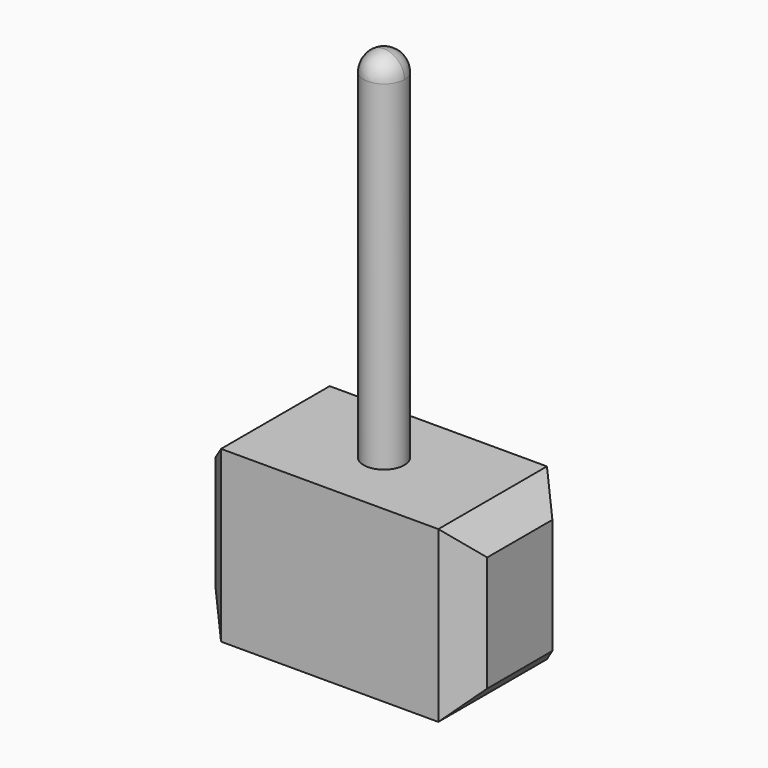
from build123d import *

# Parameters (mm, degrees)
F0_W     = 50.8
F0_H     = 25.4
F1_DEPTH = 31.75
F2_R     = 3.81
F3_DEPTH = 63.5
F6_SIZE  = 5.08
F7_SIZE  = 5.08


with BuildPart() as f1:
    # F0 (on Top) → F1 (new body)
    with BuildSketch(Plane.XY):
        Rectangle(F0_W, F0_H)
    extrude(amount=F1_DEPTH)

    # F2 (on face) → F3 (join)
    with BuildSketch(Plane.XY.offset(31.75)):
        Circle(F2_R)
    extrude(amount=F3_DEPTH)

    # F4 (on face) → F5 (revolve)
    with BuildSketch(Plane.XY.offset(95.25)):
        with BuildLine():
            Line((0, 3.81), (0, -3.81))
            ThreePointArc((0, -3.81), (2.694077, -2.694077), (3.81, 0))
            ThreePointArc((3.81, 0), (2.694077, 2.694077), (0, 3.81))
        make_face()
    revolve(axis=Axis((0, 0, 95.25), (0, -1, 0)))

    # F6
    f6_edges = [f1.edges().sort_by_distance(p)[0] for p in [
        (25.4, 0, 0),
        (25.4, 12.7, 15.875),
        (25.4, 0, 31.75),
        (25.4, -12.7, 15.875),
    ]]
    chamfer(f6_edges, length=F6_SIZE)

    # F7
    f7_edges = [f1.edges().sort_by_distance(p)[0] for p in [
        (-25.4, 0, 31.75),
        (-25.4, 12.7, 15.875),
        (-25.4, -12.7, 15.875),
        (-25.4, 0, 0),
    ]]
    chamfer(f7_edges, length=F7_SIZE)


solid = f1.part
